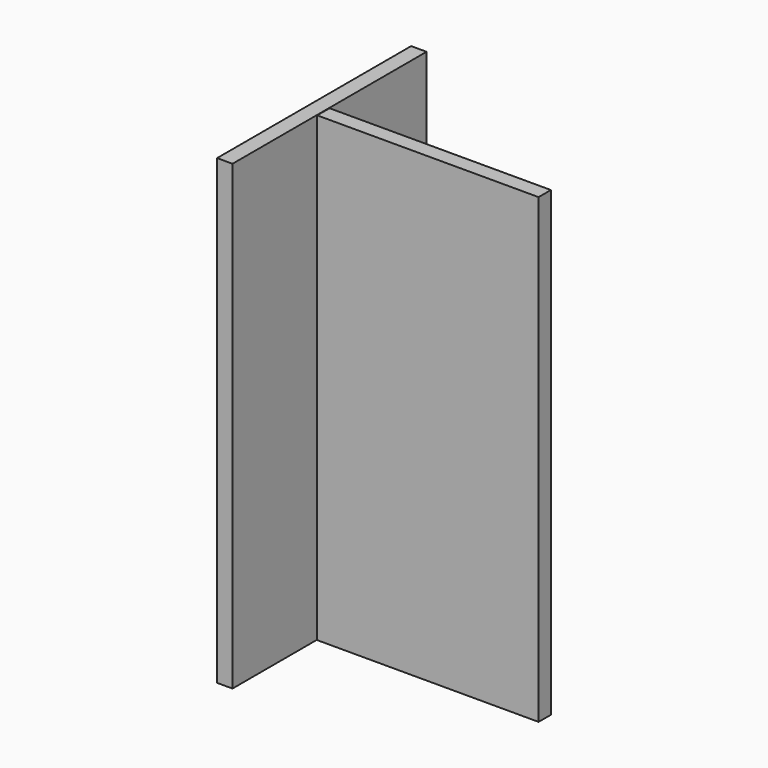
from build123d import *

# Parameters (mm, degrees)
F0_W     = 400.05
F0_H     = 762
F1_DEPTH = 25.4
F2_W     = 390.525
F2_H     = 762
F3_DEPTH = 25.4


with BuildPart() as f1:
    # F0 (on Right) → F1 (new body)
    with BuildSketch(Plane.YZ):
        Rectangle(F0_W, F0_H)
    extrude(amount=F1_DEPTH)

    # F2 (on Front) → F3 (join)
    with BuildSketch(Plane.XZ):
        with Locations((195.2625, -0.671017)):
            Rectangle(F2_W, F2_H)
    extrude(amount=F3_DEPTH)


solid = f1.part
